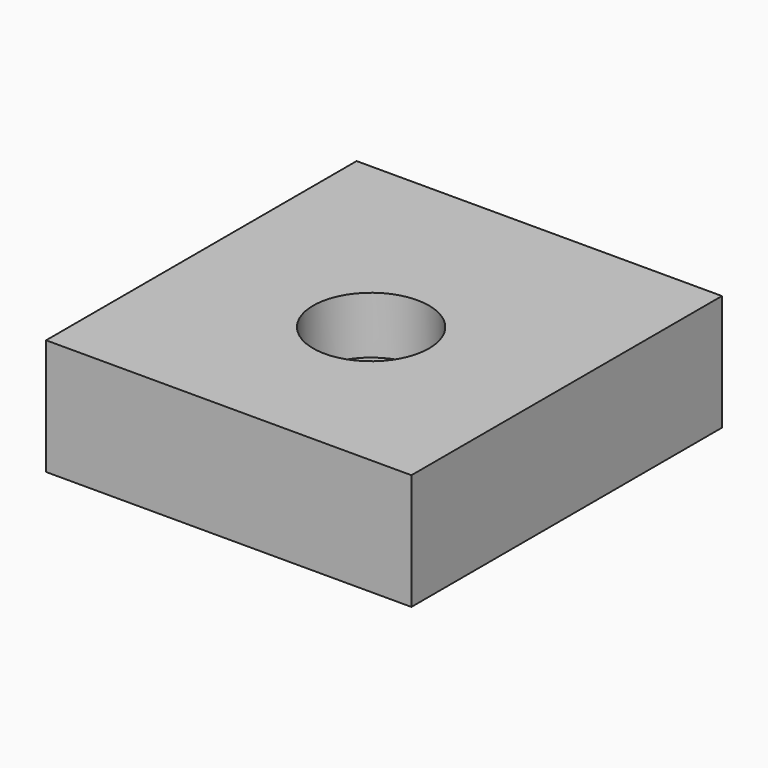
from build123d import *

# Parameters (mm, degrees)
F0_W     = 80.02039
F0_H     = 85.019648
F1_DEPTH = 25.4
F3_R     = 12.7
F2_DEPTH = 12.5


with BuildPart() as f1:
    # F0 (on Top) → F1 (new body)
    with BuildSketch(Plane.XY):
        with Locations((-0.330042, 3.939137)):
            Rectangle(F0_W, F0_H)
    extrude(amount=F1_DEPTH)

    # F3 (on face) → F2 (cut, symmetric)
    with BuildSketch(Plane.XY.offset(25.4)):
        Circle(F3_R)
    extrude(amount=F2_DEPTH, both=True, mode=Mode.SUBTRACT)


solid = f1.part
